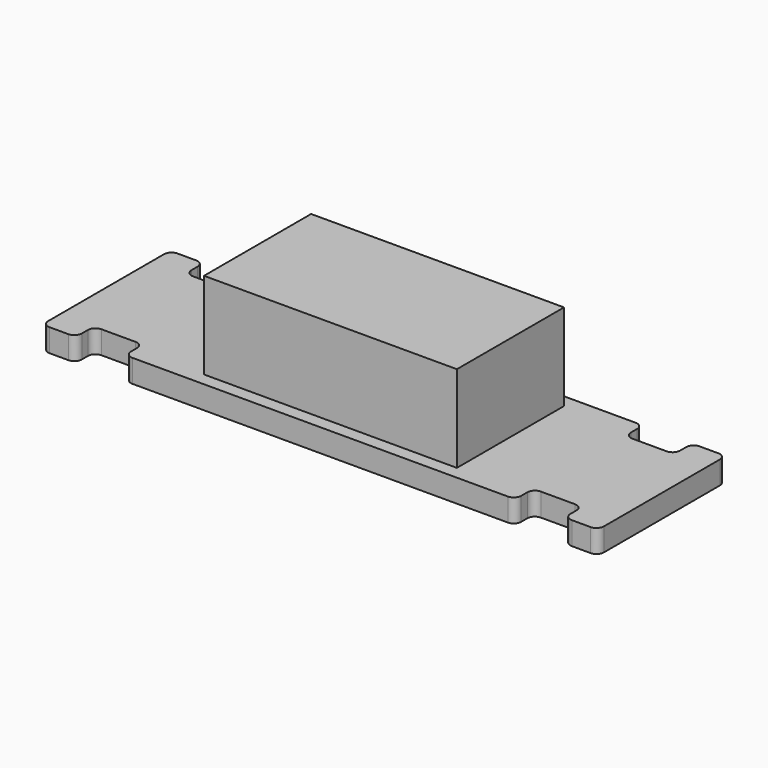
from build123d import *

# Parameters (mm, degrees)
PAD_DEPTH    = 1.54
FILLET_R     = 0.5
SKETCH001_W  = 17
SKETCH001_H  = 9
PAD001_DEPTH = 5.84


with BuildPart() as fillet_body:
    # Sketch → Pad (new body)
    with BuildSketch(Plane.XY):
        Polygon((0, 5.37), (13.12, 5.37), (13.12, 3.85), (16.42, 3.85), (16.42, 5.37), (18.68, 5.37), (18.68, 0), (0, 0), align=None)
    extrude(amount=PAD_DEPTH)

    # Fillet
    fillet_edges = [fillet_body.edges().sort_by_distance(p)[0] for p in [
        (13.12, 5.37, 0.77),
        (13.12, 3.85, 0.77),
        (16.42, 3.85, 0.77),
        (16.42, 5.37, 0.77),
        (18.68, 5.37, 0.77),
    ]]
    fillet(fillet_edges, radius=FILLET_R)


with BuildPart() as part_mirroring:
    # Part__Mirroring: instance of Fillet body
    add(fillet_body.part.mirror(Plane(origin=(0, 0, 0), x_dir=(1, 0, 0), z_dir=(0, 1, 0))))


with BuildPart() as fusion:
    # Fusion base: copy of Fillet body
    add(fillet_body.part)

    # Fusion: union Part__Mirroring
    add(part_mirroring.part)


with BuildPart() as part_mirroring001:
    # Part__Mirroring001: instance of Fusion
    add(fusion.part.mirror(Plane(origin=(0, 0, 0), x_dir=(0, -1, 0), z_dir=(1, 0, 0))))


with BuildPart() as componentboundaries001:
    # Fusion001 base: copy of Fusion
    add(fusion.part)

    # Fusion001: union Part__Mirroring001
    add(part_mirroring001.part)

    # Sketch001 → Pad001 (new body)
    with BuildSketch(Plane.XY.offset(1.54)):
        Rectangle(SKETCH001_W, SKETCH001_H)
    extrude(amount=PAD001_DEPTH)


with BuildPart() as obj1:
    # Clone base: copy of ComponentBoundaries001
    add(componentboundaries001.part)


solid = Compound([componentboundaries001.part, obj1.part])
